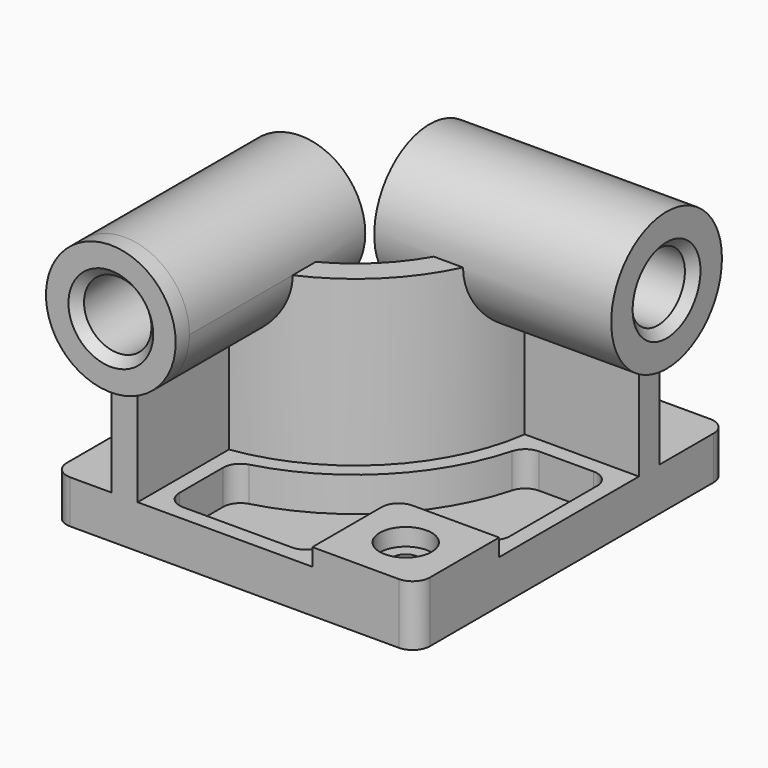
from build123d import *

# Parameters (mm, degrees)
F0_W            = 210
F0_H            = 225
F1_DEPTH        = 25
F3_DEPTH        = 95
F4_R            = 37.5
F5_DEPTH        = 10
F5_DEPTH_BACK   = 127
F6_R            = 40
F7_DEPTH        = 10
F7_DEPTH_BACK   = 127
F8_W            = 60
F8_H            = 60
F9_DEPTH        = 10
F10_R           = 10
F12_DEPTH       = 20
F14_D           = 15
F14_CBORE_D     = 30
F14_CBORE_DEPTH = 10
F15_R           = 10
F16_R           = 19.5
F17_DEPTH       = 235.001
F18_R           = 19.5
F19_DEPTH       = 220.001
F20_SIZE        = 5
F21_R           = 10


with BuildPart() as f1:
    # F0 (on Top) → F1 (new body)
    with BuildSketch(Plane.XY):
        Rectangle(F0_W, F0_H)
    extrude(amount=F1_DEPTH)

    # F2 (on face) → F3 (join)
    with BuildSketch(Plane.XY.offset(25)):
        with BuildLine():
            Line((-71, -32.5), (-71, -112.5))
            Line((-71, -112.5), (-56, -112.5))
            Line((-56, -112.5), (-56, -46.481817))
            ThreePointArc((-56, -46.481817), (7.488853, -14.988853), (38.981817, 48.5))
            Line((38.981817, 48.5), (105, 48.5))
            Line((105, 48.5), (105, 63.5))
            Line((105, 63.5), (25, 63.5))
            ThreePointArc((25, 63.5), (-3.117749, -4.382251), (-71, -32.5))
        make_face()
    extrude(amount=F3_DEPTH)

    # F4 (on face) → F5 (join, two sides)
    with BuildSketch(Plane.XZ.offset(112.5)) as f5_sk:
        with Locations((-63.5, 120)):
            Circle(F4_R)
    extrude(amount=F5_DEPTH)
    extrude(f5_sk.sketch, amount=-F5_DEPTH_BACK)

    # F6 (on face) → F7 (join, two sides)
    with BuildSketch(Plane.YZ.offset(105)) as f7_sk:
        with Locations((56, 120)):
            Circle(F6_R)
    extrude(amount=F7_DEPTH)
    extrude(f7_sk.sketch, amount=-F7_DEPTH_BACK)

    # F8 (on face) → F9 (join)
    with BuildSketch(Plane.XY.offset(25)):
        with Locations((75, -82.5)):
            Rectangle(F8_W, F8_H)
    extrude(amount=F9_DEPTH)

    # F10
    f10_edges = [f1.edges().sort_by_distance(p)[0] for p in [
        (45, -52.5, 30),
    ]]
    fillet(f10_edges, radius=F10_R)

    # F11 (on face) → F12 (cut)
    with BuildSketch(Plane.XY.offset(25)):
        with BuildLine():
            ThreePointArc((46.575508, 39.5), (13.852814, -21.352814), (-47, -54.075508))
            Line((-47, -54.075508), (-47, -103.5))
            Line((-47, -103.5), (36, -103.5))
            Line((36, -103.5), (36, -62.5))
            ThreePointArc((36, -62.5), (41.564971, -49.064971), (55, -43.5))
            Line((55, -43.5), (96, -43.5))
            Line((96, -43.5), (96, 39.5))
            Line((96, 39.5), (46.575508, 39.5))
        make_face()
    extrude(amount=-F12_DEPTH, mode=Mode.SUBTRACT)

    # F14 (through all)
    with Locations(Plane.XY.offset(35)):
        with Locations((75, -82.5)):
            CounterBoreHole(F14_D / 2, F14_CBORE_D / 2, F14_CBORE_DEPTH)

    # F15
    f15_edges = [f1.edges().sort_by_distance(p)[0] for p in [
        (-47, -54.075508, 15),
        (46.575508, 39.5, 15),
        (96, 39.5, 15),
        (96, -43.5, 15),
        (36, -103.5, 15),
        (-47, -103.5, 15),
    ]]
    fillet(f15_edges, radius=F15_R)

    # F16 (on face) → F17 (cut, through all)
    with BuildSketch(Plane.XZ.offset(122.5)):
        with Locations((-63.5, 120)):
            Circle(F16_R)
    extrude(amount=-F17_DEPTH, mode=Mode.SUBTRACT)

    # F18 (on face) → F19 (cut, through all)
    with BuildSketch(Plane.YZ.offset(115)):
        with Locations((56, 120)):
            Circle(F18_R)
    extrude(amount=-F19_DEPTH, mode=Mode.SUBTRACT)

    # F20
    f20_edges = [f1.edges().sort_by_distance(p)[0] for p in [
        (115, 36.5, 120),
        (-22, 36.5, 120),
        (-83, 14.5, 120),
        (-83, -122.5, 120),
    ]]
    chamfer(f20_edges, length=F20_SIZE)

    # F21
    f21_edges = [f1.edges().sort_by_distance(p)[0] for p in [
        (-105, -112.5, 12.5),
        (105, -112.5, 17.5),
        (105, 112.5, 12.5),
        (-105, 112.5, 12.5),
    ]]
    fillet(f21_edges, radius=F21_R)


solid = f1.part
